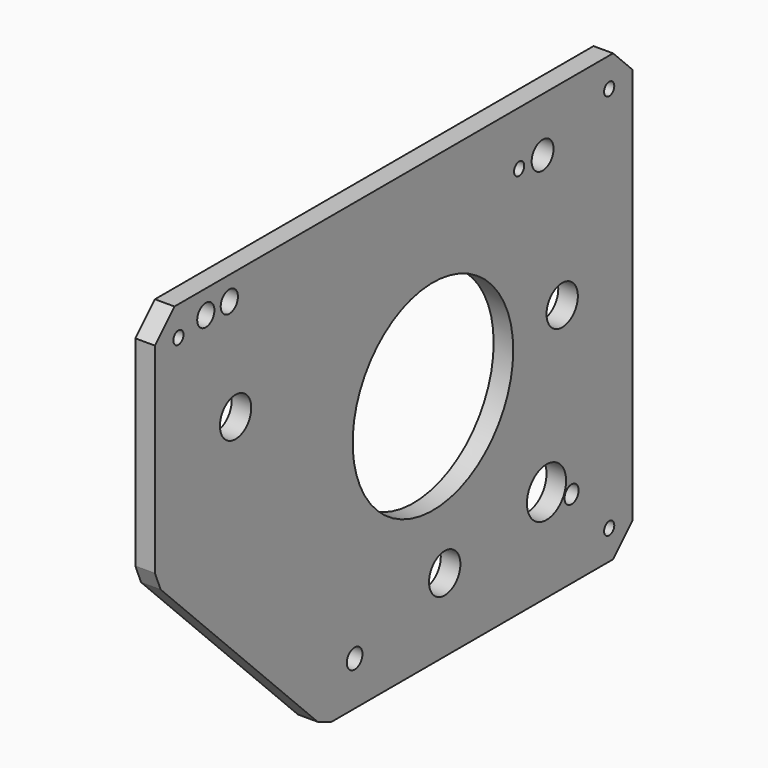
from build123d import *

# Parameters (mm, degrees)
F0_R     = 10
F0_R_2   = 20
F0_R_3   = 6.5
F0_R_4   = 9
F0_R_5   = 25
F0_R_6   = 11
F0_R_7   = 102.5
F0_R_8   = 14
F1_DEPTH = 20


with BuildPart() as f1:
    # F0 (on Right) → F1 (new body)
    with BuildSketch(Plane.YZ):
        Polygon((255.000028, -215.000014), (255.000028, 189.999986), (230.000028, 214.999986), (-329.999972, 214.999986), (-354.999972, 189.999986), (-354.999972, -14.644675), (-347.677642, -32.322345), (-147.322303, -232.677684), (-129.644633, -240.000014), (230.000028, -240.000014), align=None)
        with Locations((-99.999965, -195.000014)):
            Circle(F0_R, mode=Mode.SUBTRACT)
        with Locations((15.000028, -165.000014)):
            Circle(F0_R_2, mode=Mode.SUBTRACT)
        with Locations((225.000024, -210.000012)):
            Circle(F0_R_3, mode=Mode.SUBTRACT)
        with Locations((177.000028, -160.000014)):
            Circle(F0_R_4, mode=Mode.SUBTRACT)
        with Locations((145.000028, -145.000014)):
            Circle(F0_R_5, mode=Mode.SUBTRACT)
        with Locations((-251.999972, 83.999986)):
            Circle(F0_R_2, mode=Mode.SUBTRACT)
        with Locations((-324.999969, 184.999984)):
            Circle(F0_R_3, mode=Mode.SUBTRACT)
        with Locations((-289.999969, 190.999984)):
            Circle(F0_R_6, mode=Mode.SUBTRACT)
        with Locations((-259.999969, 190.999984)):
            Circle(F0_R_6, mode=Mode.SUBTRACT)
        with Locations((2.8e-05, -1.4e-05)):
            Circle(F0_R_7, mode=Mode.SUBTRACT)
        with Locations((165.000028, 14.999986)):
            Circle(F0_R_2, mode=Mode.SUBTRACT)
        with Locations((110.000028, 159.999986)):
            Circle(F0_R_3, mode=Mode.SUBTRACT)
        with Locations((140.000028, 159.999986)):
            Circle(F0_R_8, mode=Mode.SUBTRACT)
        with Locations((225.000024, 184.999984)):
            Circle(F0_R_3, mode=Mode.SUBTRACT)
    extrude(amount=F1_DEPTH)


solid = f1.part
